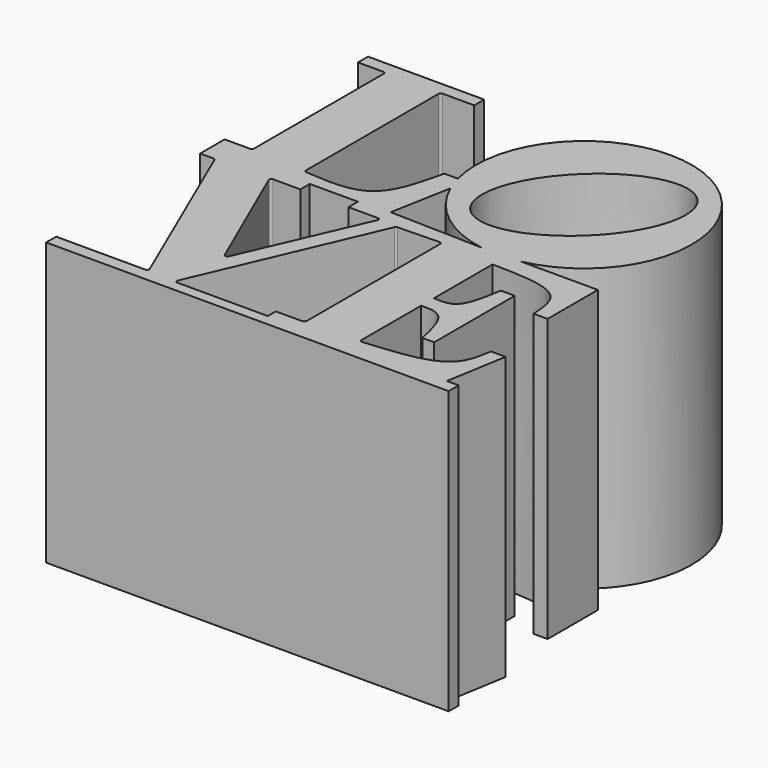
from build123d import *

# Parameters (mm, degrees)
F1_DEPTH = 25.4


with BuildPart() as f1:
    # F0 (on Top) → F1 (new body)
    with BuildSketch(Plane.XY):
        with BuildLine():
            Line((-6.922144349, 22.1033166371), (-13.8246832876, 22.1033166371))
            ThreePointArc((-13.8246832876, 22.1033166371), (-10.6539158919, 39.8689876269), (-25.2042392324, 29.1937395135))
            Line((-25.2042392324, 29.1937395135), (-26.4214727575, 29.1937395135))
            add(Edge.make_bspline(
                [(-34.1513931679, 23.289673573), (-32.0734965127, 23.1247772138), (-27.8797011755, 22.8512177675), (-26.9138783096, 27.0520360031), (-26.4214727575, 29.1937395135)],
                knots=[0.0142542389, 0.0142542389, 0.0142542389, 0.0142542389, 0.4974371567, 1, 1, 1, 1], degree=3))
            ThreePointArc((-34.1513931679, 23.289673573), (-34.2823084118, 23.3532510684), (-34.3353301287, 23.488785553))
            Line((-34.3353301287, 23.488785553), (-34.3353301287, 38.4288290516))
            ThreePointArc((-34.3353301287, 38.4288290516), (-34.2768282351, 38.5700651165), (-34.1355921701, 38.6285670102))
            Line((-34.1355921701, 38.6285670102), (-31.2780365348, 38.6285670102))
            Line((-31.2780365348, 38.6285670102), (-31.2780365348, 39.7564433515))
            Line((-31.2780365348, 39.7564433515), (-41.7470708489, 39.7564433515))
            Line((-41.7470708489, 39.7564433515), (-41.7543016374, 38.6285670102))
            Line((-41.7543016374, 38.6285670102), (-39.4631614909, 38.6285670102))
            ThreePointArc((-39.4631614909, 38.6285670102), (-39.3219254259, 38.5700651165), (-39.2634235322, 38.4288290516))
            Line((-39.2634235322, 38.4288290516), (-39.2634235322, 23.8110320643))
            ThreePointArc((-39.2634235322, 23.8110320643), (-39.3219254259, 23.6697959993), (-39.4631614909, 23.6112941056))
            Line((-39.4631614909, 23.6112941056), (-41.7543016374, 23.6112941056))
            Line((-41.7543016374, 23.6112941056), (-41.7543016374, 20.8520144224))
            Line((-41.7543016374, 20.8520144224), (-40.5457352105, 20.8520144224))
            ThreePointArc((-40.5457352105, 20.8520144224), (-40.4359695253, 20.8191499082), (-40.3623251256, 20.7313712984))
            Line((-40.3623251256, 20.7313712984), (-33.538729512, 4.9083879515))
            ThreePointArc((-33.538729512, 4.9083879515), (-33.5552661525, 4.7195274317), (-33.7221395969, 4.6295551583))
            Line((-33.7221395969, 4.6295551583), (-41.7470708489, 4.6295551583))
            Line((-41.7470708489, 4.6295551583), (-41.7543016374, 3.501678817))
            Line((-41.7543016374, 3.501678817), (-5.4787136614, 3.501678817))
            Line((-5.4787136614, 3.501678817), (-5.4787136614, 4.6295551583))
            Line((-5.4787136614, 4.6295551583), (-6.5403282642, 4.6295551583))
            Line((-6.5403282642, 4.6295551583), (-5.6234793738, 10.082394816))
            Line((-5.6234793738, 10.082394816), (-6.9263698533, 10.082394816))
            add(Edge.make_bspline(
                [(-6.9263698533, 10.082394816), (-7.1118061723, 8.9523784677), (-7.5649071247, 6.191260869), (-12.1620701189, 5.7727957343), (-14.914668792, 5.5464362064)],
                knots=[0, 0, 0, 0, 0.4030311798, 0.9847791008, 0.9847791008, 0.9847791008, 0.9847791008], degree=3))
            ThreePointArc((-14.914668792, 5.5464362064), (-15.0663635807, 5.598592373), (-15.130776912, 5.7455022003))
            Line((-15.130776912, 5.7455022003), (-15.130776912, 12.4651836231))
            add(Edge.make_bspline(
                [(-15.130776912, 12.4651836231), (-14.4511532344, 12.4706418779), (-12.8322635737, 12.48364365), (-12.2985836887, 10.0763885396), (-11.988947168, 8.6797196418)],
                knots=[0, 0, 0, 0, 0.4198085231, 1, 1, 1, 1], degree=3))
            Line((-11.988947168, 8.6797196418), (-10.9273325652, 8.6797196418))
            Line((-10.9273325652, 8.6797196418), (-10.9273325652, 17.7517011762))
            Line((-10.9273325652, 17.7517011762), (-12.1819674969, 17.7517011762))
            add(Edge.make_bspline(
                [(-15.130776912, 13.912839815), (-14.4627640937, 13.8688908923), (-12.8429680106, 13.7623236366), (-12.426614518, 16.2751677835), (-12.1819674969, 17.7517011762)],
                knots=[0, 0, 0, 0, 0.4124055029, 1, 1, 1, 1], degree=3))
            Line((-15.130776912, 13.912839815), (-15.130776912, 20.5062981695))
            add(Edge.make_bspline(
                [(-8.1767849624, 16.448808834), (-8.2510794881, 17.6109695891), (-8.4287882332, 20.390799294), (-12.6653755921, 20.4638106194), (-15.130776912, 20.5062981695)],
                knots=[0, 0, 0, 0, 0.4180690469, 1, 1, 1, 1], degree=3))
            Line((-8.1767849624, 16.448808834), (-6.922144349, 16.448808834))
            Line((-6.922144349, 16.448808834), (-6.922144349, 22.1033166371))
        make_face()
        with BuildLine():
            Line((-30.8858141466, 4.7634703214), (-24.0593529441, 20.6291089683))
            ThreePointArc((-24.0593529441, 20.6291089683), (-23.9876900428, 20.7156746015), (-23.8806319712, 20.7498469527))
            Line((-23.8806319712, 20.7498469527), (-20.1597697526, 20.8384395209))
            ThreePointArc((-20.1597697526, 20.8384395209), (-20.015470377, 20.7816652506), (-19.9552774429, 20.6387581541))
            Line((-19.9552774429, 20.6387581541), (-19.9552774429, 5.6978869252))
            ThreePointArc((-19.9552774429, 5.6978869252), (-20.044551296, 5.4823607783), (-20.2600774429, 5.3930869252))
            Line((-20.2600774429, 5.3930869252), (-22.5610584021, 5.3930869252))
            Line((-22.5610584021, 5.3930869252), (-22.5610584021, 4.4847889803))
            Line((-22.5610584021, 4.4847889803), (-30.7023388227, 4.4847889803))
            ThreePointArc((-30.7023388227, 4.4847889803), (-30.8691669411, 4.5746923769), (-30.8858141466, 4.7634703214))
        make_face(mode=Mode.SUBTRACT)
        with BuildLine():
            ThreePointArc((-35.4683719073, 20.7086384706), (-35.4522760461, 20.897826752), (-35.285222578, 20.9880732))
            Line((-35.285222578, 20.9880732), (-32.8394174576, 20.9880732))
            Line((-32.8394174576, 20.9880732), (-32.8394174576, 22.0496878028))
            Line((-32.8394174576, 22.0496878028), (-28.4964479506, 22.0496878028))
            Line((-28.4964479506, 22.0496878028), (-28.4964479506, 20.9880732))
            Line((-28.4964479506, 20.9880732), (-25.8576280892, 20.9880732))
            ThreePointArc((-25.8576280892, 20.9880732), (-25.6905746211, 20.897826752), (-25.6744787599, 20.7086384706))
            Line((-25.6744787599, 20.7086384706), (-30.3882760043, 9.8759686425))
            ThreePointArc((-30.3882760043, 9.8759686425), (-30.5714253336, 9.7559274546), (-30.754574663, 9.8759686425))
            Line((-30.754574663, 9.8759686425), (-35.4683719073, 20.7086384706))
        make_face(mode=Mode.SUBTRACT)
        with BuildLine():
            Line((-25.6976429373, 22.242706269), (-24.6842838824, 27.6955459267))
            ThreePointArc((-24.6842838824, 27.6955459267), (-21.7277147025, 23.9239461935), (-17.328214106, 22.0237724214))
            Line((-17.328214106, 22.0237724214), (-25.6976429373, 22.242706269))
        make_face(mode=Mode.SUBTRACT)
        with BuildLine():
            add(Edge.make_bspline(
                [(-10.112560244, 37.3013498764), (-15.8505308963, 43.0393233508), (-21.5028495703, 31.6490368044), (-27.1551682443, 20.258750258), (-15.764878918, 25.91106333), (-4.3745895917, 31.563376402), (-10.112560244, 37.3013498764)],
                knots=[0, 0, 0, 2.0943951024, 2.0943951024, 4.1887902048, 4.1887902048, 6.2831853072, 6.2831853072, 6.2831853072], degree=2, weights=[1, 0.5, 1, 0.5, 1, 0.5, 1]))
        make_face(mode=Mode.SUBTRACT)
    extrude(amount=F1_DEPTH)


solid = f1.part
